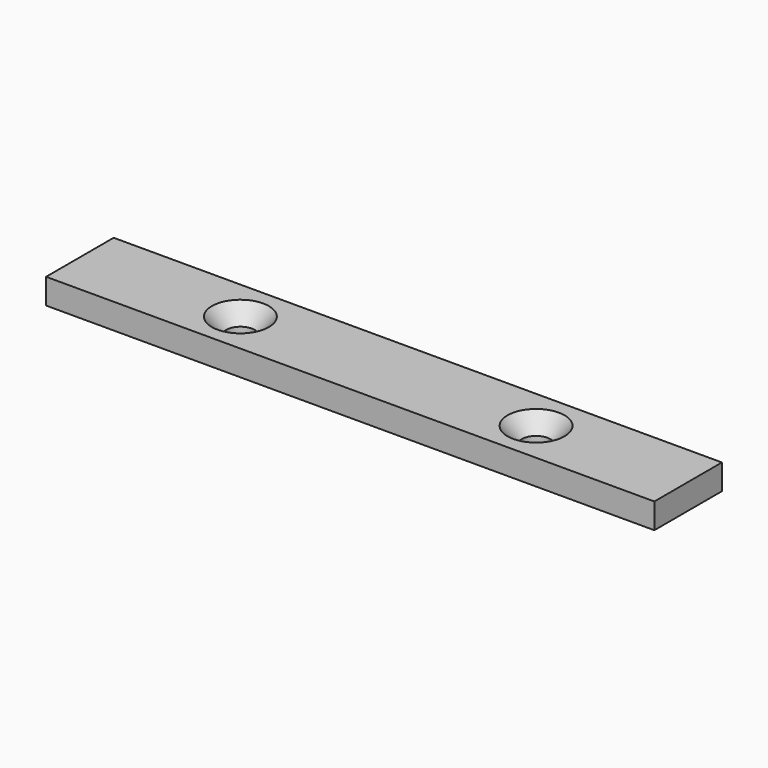
from build123d import *

# Parameters (mm, degrees)
F0_W           = 144
F0_H           = 20
F1_DEPTH       = 6
F3_D           = 6.7564
F3_DEPTH       = 16.51
F3_CSINK_D     = 13.4874
F3_CSINK_ANGLE = 82


with BuildPart() as f1:
    # F0 (on Top) → F1 (new body)
    with BuildSketch(Plane.XY):
        Rectangle(F0_W, F0_H)
    extrude(amount=F1_DEPTH)

    # F3
    with Locations(Plane.XY.offset(6)):
        with Locations((-34, 0), (36, 0)):
            CounterSinkHole(F3_D / 2, F3_CSINK_D / 2, depth=F3_DEPTH, counter_sink_angle=F3_CSINK_ANGLE)


solid = f1.part
